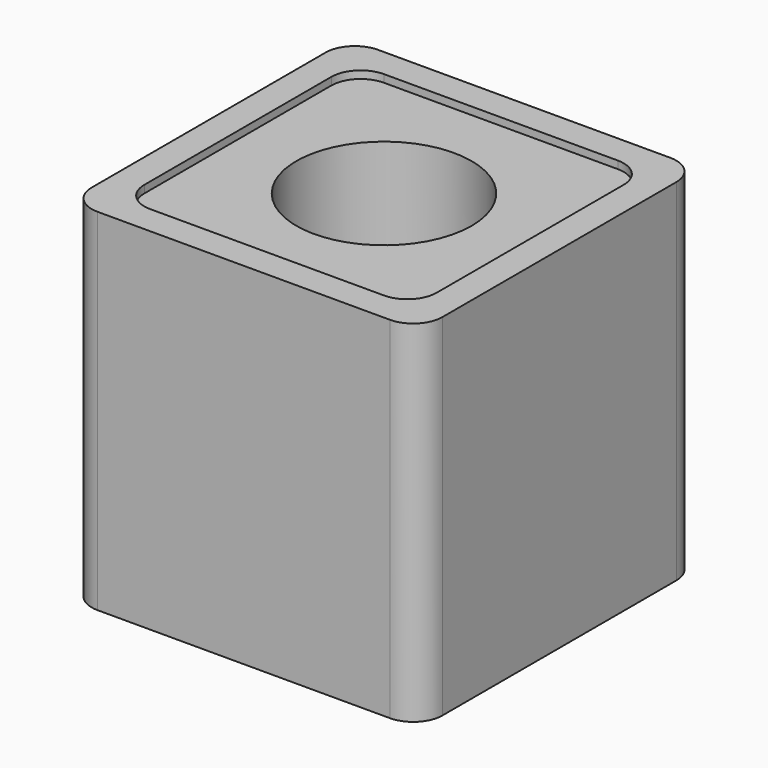
from build123d import *

# Parameters (mm, degrees)
F1_DEPTH  = 60
F2_R      = 15
F3_DEPTH  = 1.3
F3_FACE_R = 15
F4_DEPTH  = 55


with BuildPart() as f1:
    # F0 (on Top) → F1 (new body)
    with BuildSketch(Plane.XY):
        with BuildLine():
            Line((25, 30), (-25, 30))
            ThreePointArc((-25, 30), (-28.535534, 28.535534), (-30, 25))
            Line((-30, 25), (-30, -25))
            ThreePointArc((-30, -25), (-28.535534, -28.535534), (-25, -30))
            Line((-25, -30), (25, -30))
            ThreePointArc((25, -30), (28.535534, -28.535534), (30, -25))
            Line((30, -25), (30, 25))
            ThreePointArc((30, 25), (28.535534, 28.535534), (25, 30))
        make_face()
    extrude(amount=F1_DEPTH)

    # F2 (on face) → F3 (cut)
    with BuildSketch(Plane.XY.offset(60)):
        with BuildLine():
            Line((20, 25), (-20, 25))
            ThreePointArc((-20, 25), (-23.535534, 23.535534), (-25, 20))
            Line((-25, 20), (-25, -20))
            ThreePointArc((-25, -20), (-23.535534, -23.535534), (-20, -25))
            Line((-20, -25), (20, -25))
            ThreePointArc((20, -25), (23.535534, -23.535534), (25, -20))
            Line((25, -20), (25, 20))
            ThreePointArc((25, 20), (23.535534, 23.535534), (20, 25))
        make_face()
        Circle(F2_R, mode=Mode.SUBTRACT)
    extrude(amount=-F3_DEPTH, mode=Mode.SUBTRACT)

    # F3_face (on face) → F4 (cut)
    with BuildSketch(Plane.XY.offset(60)):
        Circle(F3_FACE_R)
    extrude(amount=-F4_DEPTH, mode=Mode.SUBTRACT)


solid = f1.part
